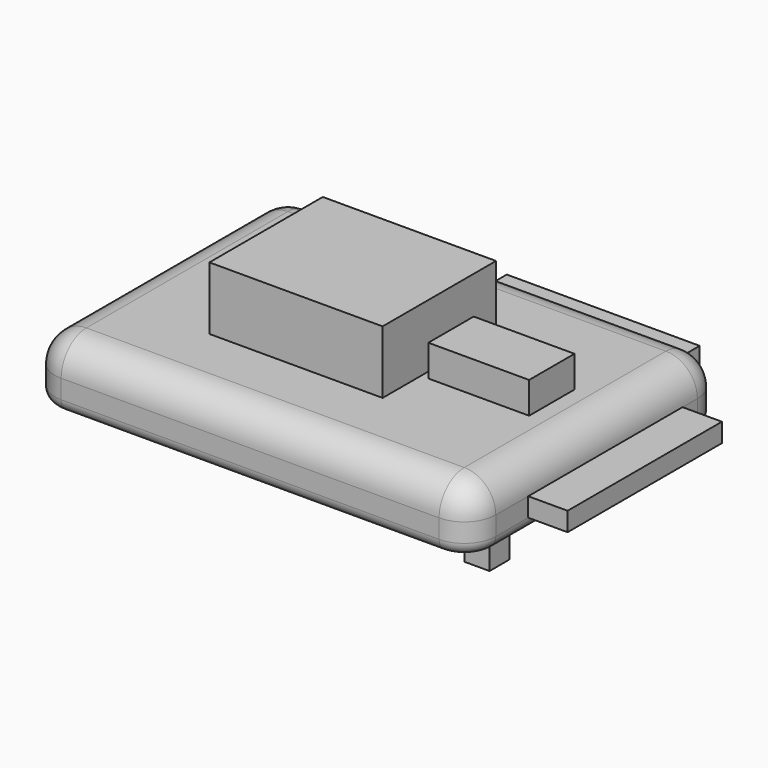
from build123d import *

# Parameters (mm, degrees)
F0_W      = 177.8
F0_H      = 25.4
F1_DEPTH  = 127
F2_R      = 12.7
F3_R      = 12.7
F4_R      = 12.7
F5_W      = 152.4
F5_H      = 101.6
F6_DEPTH  = 10.16
F7_R      = 5.08
F8_W      = 10.16
F8_H      = 10.16
F9_DEPTH  = 43.18
F10_W     = 69.85
F10_H     = 57.15
F11_DEPTH = 25.4
F10_W_2   = 40.64
F10_H_2   = 22.86
F12_DEPTH = 12.7
F13_W     = 77.7875
F13_H     = 7.62
F14_DEPTH = 15.875
F15_W     = 77.7875
F15_H     = 7.62
F16_DEPTH = 15.875


with BuildPart() as f1:
    # F0 (on Front) → F1 (new body)
    with BuildSketch(Plane.XZ):
        with Locations((6.3456185162, 8.1420660227)):
            Rectangle(F0_W, F0_H)
        with Locations((6.3456185162, 8.1420660227)):
            Rectangle(F0_W, F0_H)
    extrude(amount=F1_DEPTH)

    # F2
    f2_edges = [f1.edges().sort_by_distance(p)[0] for p in [
        (6.345619, -127, 20.842066),
        (-82.554381, -127, 8.142066),
        (-82.554381, -63.5, 20.842066),
    ]]
    fillet(f2_edges, radius=F2_R)

    # F3
    f3_edges = [f1.edges().sort_by_distance(p)[0] for p in [
        (95.245619, -57.15, 20.842066),
        (12.695619, -114.3, 20.842066),
        (95.245619, -127, 1.792066),
    ]]
    fillet(f3_edges, radius=F3_R)

    # F4
    f4_edges = [f1.edges().sort_by_distance(p)[0] for p in [
        (6.345619, 0, 20.842066),
        (-69.854381, -57.15, 20.842066),
        (-82.554381, 0, 1.792066),
    ]]
    fillet(f4_edges, radius=F4_R)

    # F5 (on face) → F6 (cut)
    with BuildSketch(Plane(origin=(0, 0, -4.5579339773), x_dir=(1, 0, 0), z_dir=(0, 0, -1))):
        with Locations((6.3456185162, 63.5)):
            Rectangle(F5_W, F5_H)
    extrude(amount=-F6_DEPTH, mode=Mode.SUBTRACT)

    # F7
    f7_edges = [f1.edges().sort_by_distance(p)[0] for p in [
        (6.345619, -127, -4.557934),
        (95.245619, -63.5, -4.557934),
        (91.525875, -123.280256, -4.557934),
    ]]
    fillet(f7_edges, radius=F7_R)

    # F8 (on face) → F9 (join)
    with BuildSketch(Plane(origin=(0, 0, 5.6020660227), x_dir=(1, 0, 0), z_dir=(0, 0, -1))):
        with Locations((57.6618951797, 71.7390547824)):
            Rectangle(F8_W, F8_H)
    extrude(amount=F9_DEPTH)

    # F10 (on face) → F11 (join)
    with BuildSketch(Plane.XY.offset(20.8420660227)):
        with Locations((-2.115206793, -64.7223750857)):
            Rectangle(F10_W, F10_H)
    extrude(amount=F11_DEPTH)

    # F10 (on face) → F12 (join)
    with BuildSketch(Plane.XY.offset(20.8420660227)):
        with Locations((56.0945885849, -62.5277971399)):
            Rectangle(F10_W_2, F10_H_2)
    extrude(amount=F12_DEPTH)

    # F13 (on face) → F14 (join)
    with BuildSketch(Plane.YZ.offset(95.2456185162)):
        with Locations((-59.0517186254, 4.3320660227)):
            Rectangle(F13_W, F13_H)
    extrude(amount=F14_DEPTH)

    # F15 (on face) → F16 (join)
    with BuildSketch(Plane(origin=(0, 0, 0), x_dir=(-1, 0, 0), z_dir=(0, 1, 0))):
        with Locations((-34.4312283516, 4.3320660227)):
            Rectangle(F15_W, F15_H)
    extrude(amount=F16_DEPTH)


solid = f1.part
